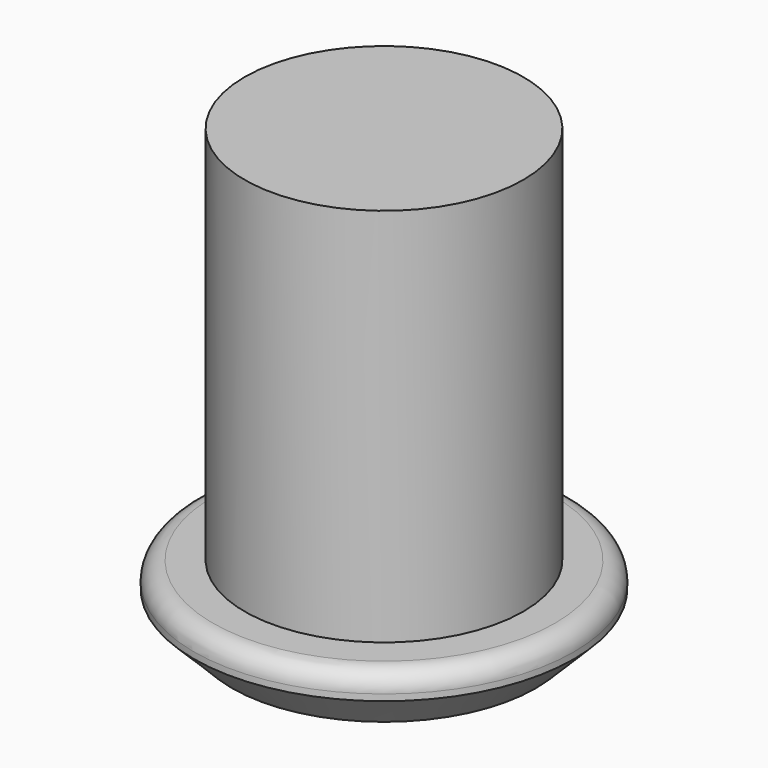
from build123d import *

# Parameters (mm, degrees)
F0_R     = 38.1
F1_DEPTH = 12.7
F2_R     = 3.81
F3_SIZE  = 7.62
F4_R     = 27.94
F5_DEPTH = 76.2


with BuildPart() as f1:
    # F0 (on Top) → F1 (new body)
    with BuildSketch(Plane.XY):
        Circle(F0_R)
    extrude(amount=F1_DEPTH)

    # F2
    f2_edges = [f1.edges().sort_by_distance(p)[0] for p in [
        (-38.1, 0, 12.7),
    ]]
    fillet(f2_edges, radius=F2_R)

    # F3
    f3_edges = [f1.edges().sort_by_distance(p)[0] for p in [
        (-38.1, 0, 0),
    ]]
    chamfer(f3_edges, length=F3_SIZE)

    # F4 (on face) → F5 (join)
    with BuildSketch(Plane.XY.offset(12.7)):
        Circle(F4_R)
    extrude(amount=F5_DEPTH)


solid = f1.part
